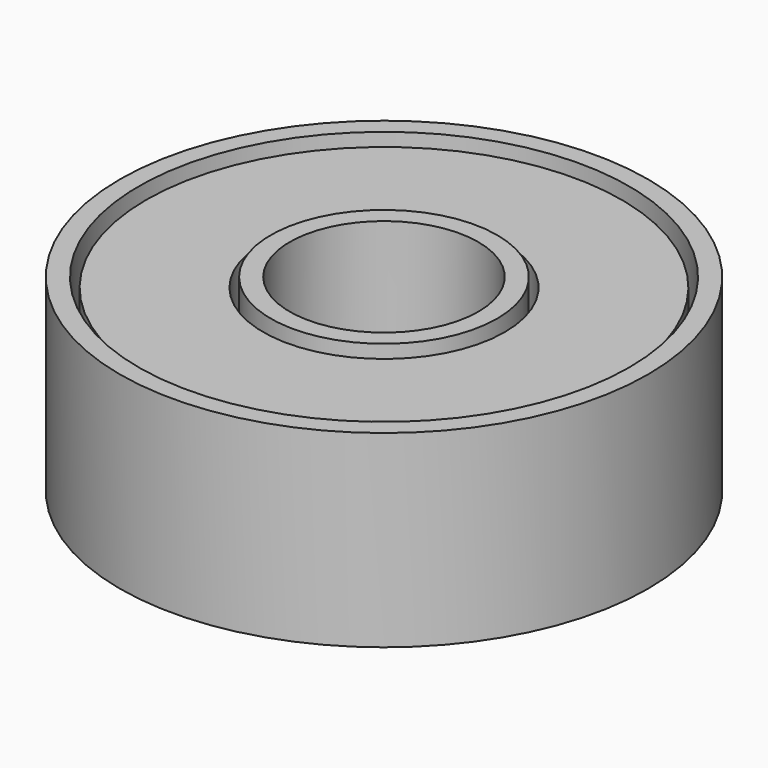
from build123d import *

# Parameters (mm, degrees)
F0_R     = 7
F0_R_2   = 6.5
F0_R_3   = 3
F0_R_4   = 2.5
F1_DEPTH = 5
F2_R     = 6.3
F2_R_2   = 3.2
F3_DEPTH = 4.5


with BuildPart() as f1:
    # F0 (on Top) → F1 (new body)
    with BuildSketch(Plane.XY):
        Circle(F0_R)
        Circle(F0_R_2, mode=Mode.SUBTRACT)
        Circle(F0_R_3)
        Circle(F0_R_4, mode=Mode.SUBTRACT)
    extrude(amount=F1_DEPTH)


with BuildPart() as f3:
    # F2 (on Top) → F3 (new body)
    with BuildSketch(Plane.XY):
        Circle(F2_R)
        Circle(F2_R_2, mode=Mode.SUBTRACT)
    extrude(amount=F3_DEPTH)


with BuildPart() as f3_1:
    # F4: moved
    add(f3.part.moved(Location((0, 0, 0.25))))


solid = Compound([f1.part, f3_1.part])
